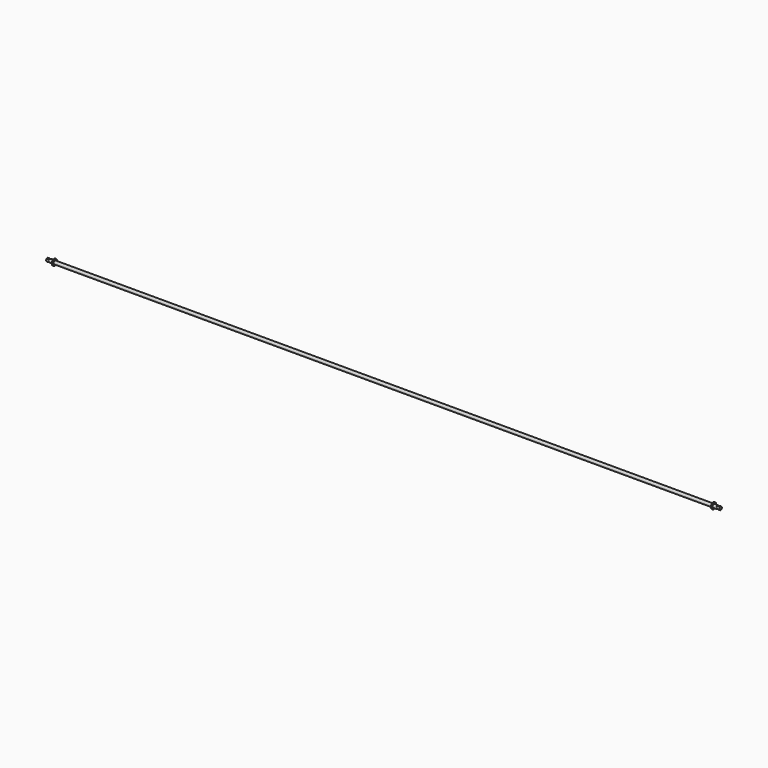
from build123d import *

# Parameters (mm, degrees)
F0_W = 1
F0_H = 2


with BuildPart() as f1:
    # F0 (on Front) → F1 (revolve)
    with BuildSketch(Plane.XZ):
        Polygon((500, -1.2), (500, 1.2), (497.5, 1.2), (497.5, 0.7), (495.5, 0.7), (495.5, 1.2), (490, 1.2), (489, 1.2), (-489, 1.2), (-490, 1.2), (-495.5, 1.2), (-495.5, 0.7), (-497.5, 0.7), (-497.5, 1.2), (-500, 1.2), (-500, -1.2), align=None)
        with Locations((489.5, 2.2)):
            Rectangle(F0_W, F0_H)
        with Locations((-489.5, 2.2)):
            Rectangle(F0_W, F0_H)
    revolve(axis=Axis((0, 0, -1.2), (-1, 0, 0)))


solid = f1.part
